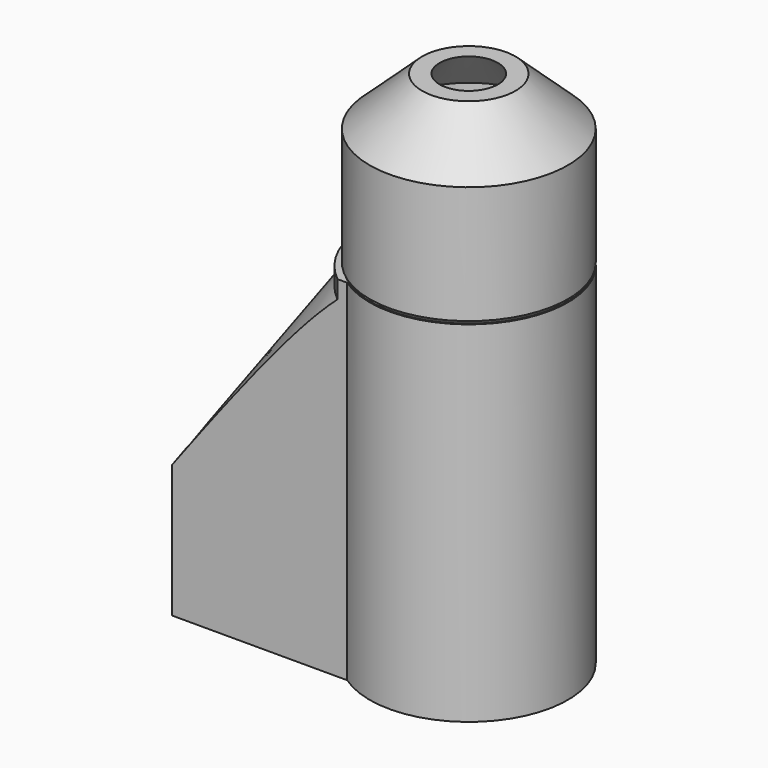
from build123d import *

# Parameters (mm, degrees)
F0_R     = 6.9
F1_DEPTH = 30
F2_R     = 2.5
F3_DEPTH = 7
F4_SIZE  = 1.5


with BuildPart() as f1:
    # F0 (on Top) → F1 (new body)
    with BuildSketch(Plane.XY):
        with BuildLine():
            Line((-19.821825, -7), (-4.821825, -7))
            ThreePointArc((-4.821825, -7), (8.5, 0), (-4.821825, 7))
            Line((-4.821825, 7), (-19.821825, 7))
            Line((-19.821825, 7), (-19.821825, -7))
        make_face()
        Circle(F0_R, mode=Mode.SUBTRACT)
    extrude(amount=F1_DEPTH)

    # F2 (on face) → F3 (cut)
    with BuildSketch(Plane(origin=(-19.821825, 0, 0), x_dir=(0, -1, 0), z_dir=(-1, 0, 0))):
        with Locations((0, 5)):
            Circle(F2_R)
    extrude(amount=-F3_DEPTH, mode=Mode.SUBTRACT)

    # F4
    f4_edges = [f1.edges().sort_by_distance(p)[0] for p in [
        (-6.9, 0, 30),
    ]]
    chamfer(f4_edges, length=F4_SIZE)

    # F8 (on Front) → F9 (revolve, cut)
    with BuildSketch(Plane.XZ):
        Polygon((-9, 28.46919), (-9, 31), (-22, 31.653638), (-22, 10), align=None)
    revolve(axis=Axis((0, 0, 22.582859), (0, 0, -1)), mode=Mode.SUBTRACT)


with BuildPart() as f7:
    # F6 (on Front) → F7 (revolve)
    with BuildSketch(Plane.XZ):
        Polygon((-8.296447, 30.25), (-6.65, 28.603553), (-6.65, 24.9), (-4, 24.9), (-4, 24.5), (-2.5, 24.5), (-2.5, 26), (-5.15, 26), (-5.15, 27.333333), (-5.15, 28.65), (-6.423346, 29.923346), (-6.423346, 30.77723), (-1, 36.098971), (-1, 37.5), (-6.649931, 31.955919), (-6.649931, 40.350069), (-2.5, 44.5), (-3.729294, 44.5), (-4, 44.5), (-8.5, 40.350069), (-8.5, 30.25), align=None)
    revolve(axis=Axis((0, 0, 26.077068), (0, 0, -1)))


solid = Compound([f1.part, f7.part])
